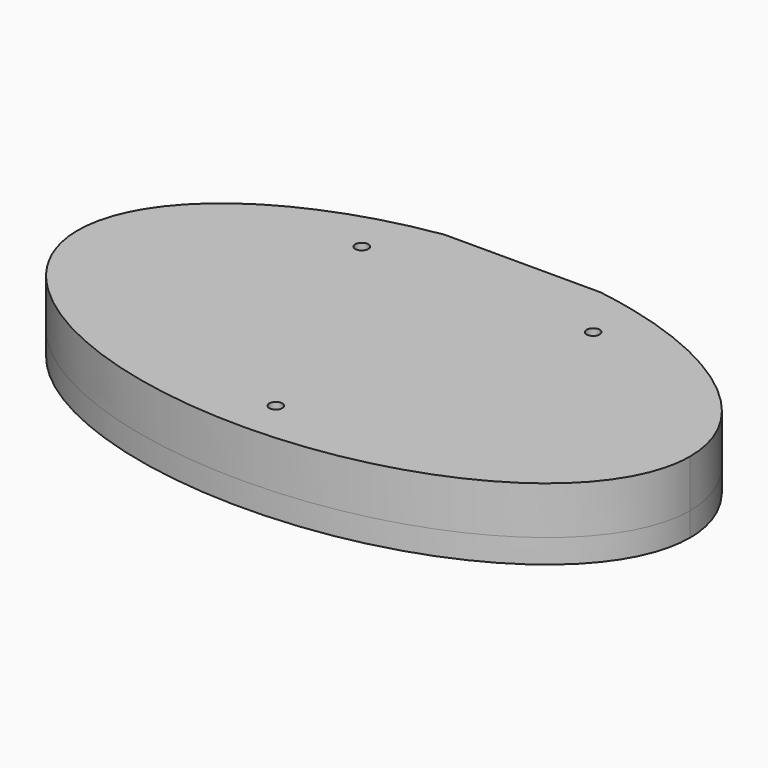
from build123d import *

# Parameters (mm, degrees)
PAD_DEPTH       = 6
POCKET_DEPTH    = 3
PAD001_DEPTH    = 3
SKETCH003_W     = 66
SKETCH003_H     = 2.77
POCKET001_DEPTH = 3
SKETCH004_W     = 19.6
SKETCH004_H     = 1
POCKET002_DEPTH = 9.001
SKETCH005_R     = 0.82
POCKET003_DEPTH = 9.001


with BuildPart() as part:
    # Sketch → Pad (new body)
    with BuildSketch(Plane.XY):
        with BuildLine():
            add(Edge.make_bspline(
                [(38.5, 0), (38.5, 38.971143), (-19.25, 19.485572), (-77, 0), (-19.25, -19.485572), (38.5, -38.971143), (38.5, 0)],
                knots=[0, 0, 0, 2.094395, 2.094395, 4.18879, 4.18879, 6.283185, 6.283185, 6.283185], degree=2, weights=[1, 0.5, 1, 0.5, 1, 0.5, 1]))
        make_face()
    extrude(amount=PAD_DEPTH)

    # Sketch001 (on Face2 of Pad) → Pocket (cut)
    with BuildSketch(Plane(origin=(0, 0, 0), x_dir=(1, 0, 0), z_dir=(0, 0, -1))):
        Polygon((9.55, -3.696801), (9.55, -21.796801), (-9.55, -21.796801), (-9.55, -3.696801), (-33, -3.696801), (-33, 6.303199), (33, 6.303199), (33, -3.696801), align=None)
    extrude(amount=-POCKET_DEPTH, mode=Mode.SUBTRACT)

    # Sketch002 (on Face2 of Pocket) → Pad001 (join)
    with BuildSketch(Plane(origin=(0, 0, 0), x_dir=(1, 0, 0), z_dir=(0, 0, -1))):
        with BuildLine():
            add(Edge.make_bspline(
                [(38.5, 0), (38.5, 38.971143), (-19.25, 19.485572), (-77, 0), (-19.25, -19.485572), (38.5, -38.971143), (38.5, 0)],
                knots=[0, 0, 0, 2.094395, 2.094395, 4.18879, 4.18879, 6.283185, 6.283185, 6.283185], degree=2, weights=[1, 0.5, 1, 0.5, 1, 0.5, 1]))
        make_face()
    extrude(amount=PAD001_DEPTH)

    # Sketch003 (on Face4 of Pad001) → Pocket001 (cut)
    with BuildSketch(Plane(origin=(0, 0, -3), x_dir=(1, 0, 0), z_dir=(0, 0, -1))):
        with Locations((0, 1.303199)):
            Rectangle(SKETCH003_W, SKETCH003_H)
    extrude(amount=-POCKET001_DEPTH, mode=Mode.SUBTRACT)

    # Sketch004 (on Face4 of Pocket001) → Pocket002 (cut, through all)
    with BuildSketch(Plane(origin=(0, 0, -3), x_dir=(1, 0, 0), z_dir=(0, 0, -1))):
        with Locations((0, -22.258868)):
            Rectangle(SKETCH004_W, SKETCH004_H)
    extrude(amount=-POCKET002_DEPTH, mode=Mode.SUBTRACT)

    # Sketch005 (on Face7 of Pocket002) → Pocket003 (cut, through all)
    with BuildSketch(Plane(origin=(0, 0, -3), x_dir=(1, 0, 0), z_dir=(0, 0, -1))):
        with Locations((-14.55, -14.696801)):
            Circle(SKETCH005_R)
        with Locations((0, 17)):
            Circle(SKETCH005_R)
        with Locations((14.55, -14.696801)):
            Circle(SKETCH005_R)
    extrude(amount=-POCKET003_DEPTH, mode=Mode.SUBTRACT)


solid = part.part
